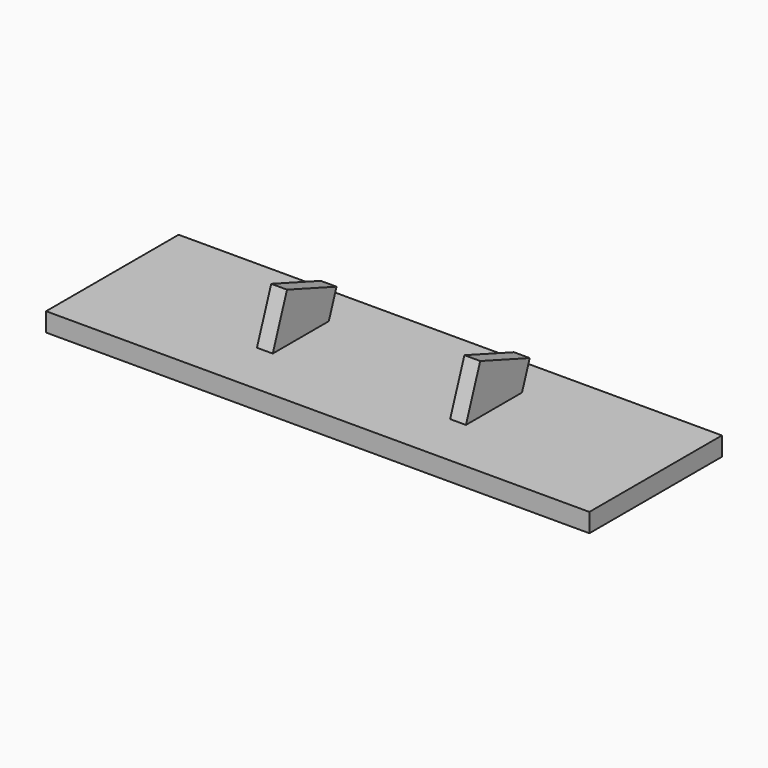
from build123d import *

# Parameters (mm, degrees)
F0_W     = 91.7135253549
F0_H     = 27.9620755464
F1_DEPTH = 3.175
F4_W     = 2.665694803
F4_H     = 11.1176939681
F5_DEPTH = 10.16
F7_W     = 36.2722687423
F7_H     = 13.592146337
F8_DEPTH = 68.072


with BuildPart() as f1:
    # F0 (on Top) → F1 (new body)
    with BuildSketch(Plane.XY):
        Rectangle(F0_W, F0_H)
    extrude(amount=F1_DEPTH)

    # F4 (on line) → F5 (join)
    with BuildSketch(Plane(origin=(0, 0, 0), x_dir=(1, 0, 0), z_dir=(0, 0.3420201433, 0.9396926208))):
        with Locations((16.3055844605, 0)):
            Rectangle(F4_W, F4_H)
    extrude(amount=F5_DEPTH)

    # F6: F1 across plane


with BuildPart() as f1_1:
    add(f1.part)
    add(f1.part.mirror(Plane.YZ))

    # F7 (on Right) → F8 (cut, symmetric)
    with BuildSketch(Plane.YZ):
        with Locations((0.2234503627, -6.7960731685)):
            Rectangle(F7_W, F7_H)
    extrude(amount=F8_DEPTH, both=True, mode=Mode.SUBTRACT)


solid = f1_1.part
